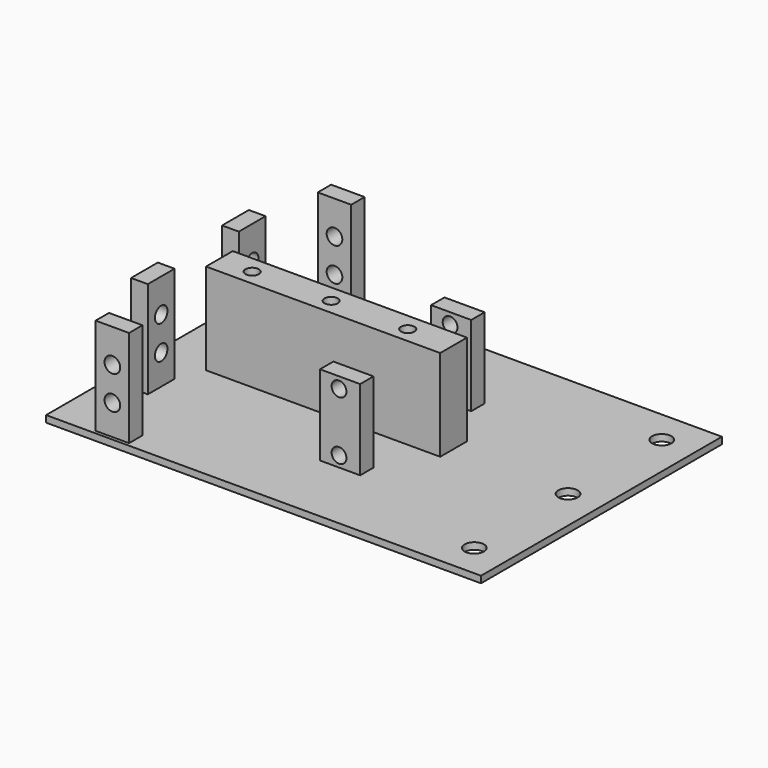
from build123d import *

# Parameters (mm, degrees)
SKETCH073_R                = 2.34
EXTRUDE089_DEPTH           = 20
SKETCH072_W                = 10
SKETCH072_H                = 30
EXTRUDE088_DEPTH           = 5
EXTRUDE088_PLACEMENT_ANGLE = 90
CUT055_PLACEMENT_ANGLE     = 90
SKETCH069_R                = 2.34
EXTRUDE085_DEPTH           = 20
SKETCH068_W                = 10
SKETCH068_H                = 30
EXTRUDE084_DEPTH           = 5
EXTRUDE084_PLACEMENT_ANGLE = 90
SKETCH082_R                = 2.21
EXTRUDE103_DEPTH           = 10
SKETCH081_R                = 2.21
EXTRUDE102_DEPTH           = 10
SKETCH080_W                = 12
SKETCH080_H                = 26.01178
EXTRUDE101_DEPTH           = 5
SKETCH079_R                = 2.21
EXTRUDE100_DEPTH           = 10
SKETCH078_R                = 2.21
EXTRUDE099_DEPTH           = 10
SKETCH077_W                = 12
SKETCH077_H                = 26.01178
EXTRUDE098_DEPTH           = 5
SKETCH071_R                = 2.34
EXTRUDE087_DEPTH           = 20
SKETCH070_W                = 10
SKETCH070_H                = 30
EXTRUDE086_DEPTH           = 5
EXTRUDE086_PLACEMENT_ANGLE = 90
CUT052_PLACEMENT_ANGLE     = 90
SKETCH067_R                = 2.34
EXTRUDE083_DEPTH           = 20
SKETCH066_W                = 10
SKETCH066_H                = 30
EXTRUDE082_DEPTH           = 5
EXTRUDE082_PLACEMENT_ANGLE = 90
SKETCH016_R                = 2.005
EXTRUDE077_DEPTH           = 20
EXTRUDE076_DEPTH           = 20
EXTRUDE075_DEPTH           = 20
SKETCH059_W                = 10
SKETCH059_H                = 27.36
EXTRUDE065_DEPTH           = 70
SKETCH075_R                = 2.9
EXTRUDE091_DEPTH           = 50
SKETCH074_W                = 130
SKETCH074_H                = 90
EXTRUDE090_DEPTH           = 2


with BuildPart() as tornillos019:
    # Sketch073 (on Face6 of Extrude088) → Extrude089 (new body)
    with BuildSketch(Plane(origin=(-101, -107, 0), x_dir=(0, -1, 0), z_dir=(-1, 0, 0))):
        with Locations((-135.006037, 30)):
            Circle(SKETCH073_R)
        with Locations((-135.008375, 20)):
            Circle(SKETCH073_R)
    extrude(amount=EXTRUDE089_DEPTH)


with BuildPart() as tornillos019_1:
    # Extrude089 placement: moved
    add(tornillos019.part.moved(Location((17, 0, 0))))


with BuildPart() as soporte016:
    # Sketch072 → Extrude088 (new body)
    with BuildSketch(Plane.XZ):
        with Locations((-135, 25)):
            Rectangle(SKETCH072_W, SKETCH072_H)
    extrude(amount=EXTRUDE088_DEPTH)


with BuildPart() as soporte016_1:
    # Extrude088 placement: moved
    add(soporte016.part.moved(Location((-96, -107, 0))).rotate(Axis((-96, -107, 0), (0, 0, -1)), EXTRUDE088_PLACEMENT_ANGLE))

    # Cut055: cut Tornillos019
    add(tornillos019_1.part, mode=Mode.SUBTRACT)


with BuildPart() as soporte016_2:
    # Cut055 placement: moved
    add(soporte016_1.part.moved(Location((-119, -12, -3))).rotate(Axis((-119, -12, -3), (0, 0, -1)), CUT055_PLACEMENT_ANGLE))


with BuildPart() as tornillos017:
    # Sketch069 (on Face6 of Extrude084) → Extrude085 (new body)
    with BuildSketch(Plane(origin=(-101, -107, 0), x_dir=(0, -1, 0), z_dir=(-1, 0, 0))):
        with Locations((-135.006037, 30)):
            Circle(SKETCH069_R)
        with Locations((-135.008375, 20)):
            Circle(SKETCH069_R)
    extrude(amount=EXTRUDE085_DEPTH)


with BuildPart() as tornillos017_1:
    # Extrude085 placement: moved
    add(tornillos017.part.moved(Location((17, 0, 0))))


with BuildPart() as soporte015:
    # Sketch068 → Extrude084 (new body)
    with BuildSketch(Plane.XZ):
        with Locations((-135, 25)):
            Rectangle(SKETCH068_W, SKETCH068_H)
    extrude(amount=EXTRUDE084_DEPTH)


with BuildPart() as soporte015_1:
    # Extrude084 placement: moved
    add(soporte015.part.moved(Location((-96, -107, 0))).rotate(Axis((-96, -107, 0), (0, 0, -1)), EXTRUDE084_PLACEMENT_ANGLE))

    # Cut054: cut Tornillos017
    add(tornillos017_1.part, mode=Mode.SUBTRACT)


with BuildPart() as soporte015_2:
    # Cut054 placement: moved
    add(soporte015_1.part.moved(Location((-2, 34, -3))))


with BuildPart() as extrude103:
    # Sketch082 → Extrude103 (new body)
    with BuildSketch(Plane.XZ):
        with Locations((-30.242167, 20.01615)):
            Circle(SKETCH082_R)
    extrude(amount=EXTRUDE103_DEPTH)


with BuildPart() as extrude103_1:
    # Extrude103 placement: moved
    add(extrude103.part.moved(Location((-9.8, 5, -14.82))))


with BuildPart() as extrude102:
    # Sketch081 → Extrude102 (new body)
    with BuildSketch(Plane.XZ):
        with Locations((-30.242167, 20.01615)):
            Circle(SKETCH081_R)
    extrude(amount=EXTRUDE102_DEPTH)


with BuildPart() as extrude102_1:
    # Extrude102 placement: moved
    add(extrude102.part.moved(Location((-9.8, 3, 2.68))))


with BuildPart() as cut059:
    # Sketch080 → Extrude101 (new body)
    with BuildSketch(Plane.XZ):
        with Locations((-39.733391, 13.00589)):
            Rectangle(SKETCH080_W, SKETCH080_H)
    extrude(amount=EXTRUDE101_DEPTH)

    # Cut058: cut Extrude102
    add(extrude102_1.part, mode=Mode.SUBTRACT)

    # Cut059: cut Extrude103
    add(extrude103_1.part, mode=Mode.SUBTRACT)


with BuildPart() as cut059_1:
    # Cut059 placement: moved
    add(cut059.part.moved(Location((0, 68.5, 6))))


with BuildPart() as extrude100:
    # Sketch079 → Extrude100 (new body)
    with BuildSketch(Plane.XZ):
        with Locations((-30.242167, 20.01615)):
            Circle(SKETCH079_R)
    extrude(amount=EXTRUDE100_DEPTH)


with BuildPart() as extrude100_1:
    # Extrude100 placement: moved
    add(extrude100.part.moved(Location((-9.8, 5, -14.82))))


with BuildPart() as extrude099:
    # Sketch078 → Extrude099 (new body)
    with BuildSketch(Plane.XZ):
        with Locations((-30.242167, 20.01615)):
            Circle(SKETCH078_R)
    extrude(amount=EXTRUDE099_DEPTH)


with BuildPart() as extrude099_1:
    # Extrude099 placement: moved
    add(extrude099.part.moved(Location((-9.8, 3, 2.68))))


with BuildPart() as cut057:
    # Sketch077 → Extrude098 (new body)
    with BuildSketch(Plane.XZ):
        with Locations((-39.733391, 13.00589)):
            Rectangle(SKETCH077_W, SKETCH077_H)
    extrude(amount=EXTRUDE098_DEPTH)

    # Cut056: cut Extrude099
    add(extrude099_1.part, mode=Mode.SUBTRACT)

    # Cut057: cut Extrude100
    add(extrude100_1.part, mode=Mode.SUBTRACT)


with BuildPart() as cut057_1:
    # Cut057 placement: moved
    add(cut057.part.moved(Location((0, 27, 6))))


with BuildPart() as tornillos018:
    # Sketch071 (on Face6 of Extrude086) → Extrude087 (new body)
    with BuildSketch(Plane(origin=(-101, -107, 0), x_dir=(0, -1, 0), z_dir=(-1, 0, 0))):
        with Locations((-135.006037, 30)):
            Circle(SKETCH071_R)
        with Locations((-135.008375, 20)):
            Circle(SKETCH071_R)
    extrude(amount=EXTRUDE087_DEPTH)


with BuildPart() as tornillos018_1:
    # Extrude087 placement: moved
    add(tornillos018.part.moved(Location((17, 0, 0))))


with BuildPart() as soporte013:
    # Sketch070 → Extrude086 (new body)
    with BuildSketch(Plane.XZ):
        with Locations((-135, 25)):
            Rectangle(SKETCH070_W, SKETCH070_H)
    extrude(amount=EXTRUDE086_DEPTH)


with BuildPart() as soporte013_1:
    # Extrude086 placement: moved
    add(soporte013.part.moved(Location((-96, -107, 0))).rotate(Axis((-96, -107, 0), (0, 0, -1)), EXTRUDE086_PLACEMENT_ANGLE))

    # Cut052: cut Tornillos018
    add(tornillos018_1.part, mode=Mode.SUBTRACT)


with BuildPart() as soporte013_2:
    # Cut052 placement: moved
    add(soporte013_1.part.moved(Location((-119, -95, -3))).rotate(Axis((-119, -95, -3), (0, 0, -1)), CUT052_PLACEMENT_ANGLE))


with BuildPart() as tornillos016:
    # Sketch067 (on Face6 of Extrude082) → Extrude083 (new body)
    with BuildSketch(Plane(origin=(-101, -107, 0), x_dir=(0, -1, 0), z_dir=(-1, 0, 0))):
        with Locations((-135.006037, 30)):
            Circle(SKETCH067_R)
        with Locations((-135.008375, 20)):
            Circle(SKETCH067_R)
    extrude(amount=EXTRUDE083_DEPTH)


with BuildPart() as tornillos016_1:
    # Extrude083 placement: moved
    add(tornillos016.part.moved(Location((17, 0, 0))))


with BuildPart() as soporte014:
    # Sketch066 → Extrude082 (new body)
    with BuildSketch(Plane.XZ):
        with Locations((-135, 25)):
            Rectangle(SKETCH066_W, SKETCH066_H)
    extrude(amount=EXTRUDE082_DEPTH)


with BuildPart() as soporte014_1:
    # Extrude082 placement: moved
    add(soporte014.part.moved(Location((-96, -107, 0))).rotate(Axis((-96, -107, 0), (0, 0, -1)), EXTRUDE082_PLACEMENT_ANGLE))

    # Cut053: cut Tornillos016
    add(tornillos016_1.part, mode=Mode.SUBTRACT)


with BuildPart() as soporte014_2:
    # Cut053 placement: moved
    add(soporte014_1.part.moved(Location((-2, 0, -3))))


with BuildPart() as tornillo018:
    # Sketch016 (on Face16 of Fusion001) → Extrude077 (new body)
    with BuildSketch(Plane.XY.offset(45.913223)):
        with Locations((-84.962639, 67.504814)):
            Circle(SKETCH016_R)
    extrude(amount=EXTRUDE077_DEPTH)


with BuildPart() as tornillo018_1:
    # Extrude077 placement: moved
    add(tornillo018.part.moved(Location((46.5, -21.8, -26))))


with BuildPart() as tornillo017:
    # Sketch016 (on Face16 of Fusion001) → Extrude076 (new body)
    with BuildSketch(Plane.XY.offset(45.913223)):
        with Locations((-84.962639, 67.504814)):
            Circle(SKETCH016_R)
    extrude(amount=EXTRUDE076_DEPTH)


with BuildPart() as tornillo017_1:
    # Extrude076 placement: moved
    add(tornillo017.part.moved(Location((23.6, -21.8, -25.9))))


with BuildPart() as tornillo016:
    # Sketch016 (on Face16 of Fusion001) → Extrude075 (new body)
    with BuildSketch(Plane.XY.offset(45.913223)):
        with Locations((-84.962639, 67.504814)):
            Circle(SKETCH016_R)
    extrude(amount=EXTRUDE075_DEPTH)


with BuildPart() as tornillo016_1:
    # Extrude075 placement: moved
    add(tornillo016.part.moved(Location((0, -21.8, -26))))


with BuildPart() as obj1:
    # Sketch059 → Extrude065 (new body)
    with BuildSketch(Plane.YZ):
        with Locations((-10.400922, 22.215275)):
            Rectangle(SKETCH059_W, SKETCH059_H)
    extrude(amount=EXTRUDE065_DEPTH)


with BuildPart() as obj1_1:
    # Extrude065 placement: moved
    add(obj1.part.moved(Location((-95, 56.4, -0.3))))

    # Cut043: cut Tornillo016
    add(tornillo016_1.part, mode=Mode.SUBTRACT)

    # Cut044: cut Tornillo017
    add(tornillo017_1.part, mode=Mode.SUBTRACT)

    # Cut045: cut Tornillo018
    add(tornillo018_1.part, mode=Mode.SUBTRACT)


with BuildPart() as obj1_2:
    # Cut045 placement: moved
    add(obj1_1.part.moved(Location((0, 0, -0.3))))


with BuildPart() as tornillos020:
    # Sketch075 (on Face6 of Extrude090) → Extrude091 (new body)
    with BuildSketch(Plane.XY.offset(2)):
        with Locations((120, 80.020506)):
            Circle(SKETCH075_R)
        with Locations((120, 45.010253)):
            Circle(SKETCH075_R)
        with Locations((120, 10)):
            Circle(SKETCH075_R)
    extrude(amount=EXTRUDE091_DEPTH)


with BuildPart() as tornillos020_1:
    # Extrude091 placement: moved
    add(tornillos020.part.moved(Location((0, 0, -31))))


with BuildPart() as obj2:
    # Sketch074 → Extrude090 (new body)
    with BuildSketch(Plane.XY):
        with Locations((65, 45)):
            Rectangle(SKETCH074_W, SKETCH074_H)
    extrude(amount=EXTRUDE090_DEPTH)

    # Cut047: cut Tornillos020
    add(tornillos020_1.part, mode=Mode.SUBTRACT)


with BuildPart() as obj2_1:
    # Cut047 placement: moved
    add(obj2.part.moved(Location((-110, 0, 6))))

    # Fusion019: union obj1
    add(obj1_2.part)

    # Fusion020: union Soporte014
    add(soporte014_2.part)

    # Fusion021: union Soporte013
    add(soporte013_2.part)

    # Fusion022: union Cut057
    add(cut057_1.part)

    # Fusion023: union Cut059
    add(cut059_1.part)

    # Fusion024: union Soporte015
    add(soporte015_2.part)

    # Fusion025: union Soporte016
    add(soporte016_2.part)


solid = obj2_1.part
